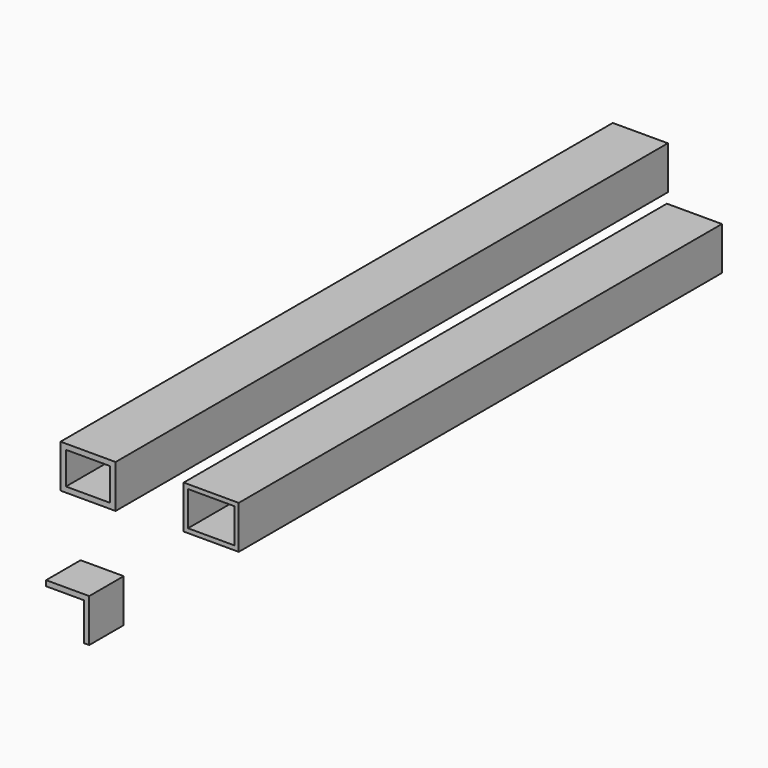
from build123d import *

# Parameters (mm, degrees)
F0_W     = 32.418659
F0_H     = 25.4
F1_DEPTH = 406.4
F2_T     = -3.175
F3_W     = 32.4104
F3_H     = 25.4
F4_DEPTH = 355.6
F5_T     = -2.54
F7_DEPTH = 25.4


with BuildPart() as f1:
    # F0 (on Front) → F1 (new body)
    with BuildSketch(Plane.XZ):
        with Locations((-43.53901, 18.260177)):
            Rectangle(F0_W, F0_H)
    extrude(amount=-F1_DEPTH)

    # F2
    f2_openings = [f1.faces().sort_by_distance(p)[0] for p in [
        (-43.539011, 0, 18.260177),
        (-43.539011, 406.4, 18.260177),
    ]]
    offset(amount=F2_T, openings=f2_openings)


with BuildPart() as f4:
    # F3 (on Front) → F4 (new body)
    with BuildSketch(Plane.XZ):
        with Locations((28.950076, 20.637547)):
            Rectangle(F3_W, F3_H)
    extrude(amount=-F4_DEPTH)

    # F5
    f5_openings = [f4.faces().sort_by_distance(p)[0] for p in [
        (28.950076, 0, 20.637547),
        (28.950076, 355.6, 20.637547),
    ]]
    offset(amount=F5_T, openings=f5_openings)


with BuildPart() as f7:
    # F6 (on Front) → F7 (new body)
    with BuildSketch(Plane.XZ):
        Polygon((-22.545867, -26.656636), (-47.945867, -26.656636), (-47.945867, -29.831636), (-25.720867, -29.831636), (-25.720867, -52.056636), (-22.545867, -52.056636), align=None)
    extrude(amount=F7_DEPTH)


solid = Compound([f1.part, f4.part, f7.part])
